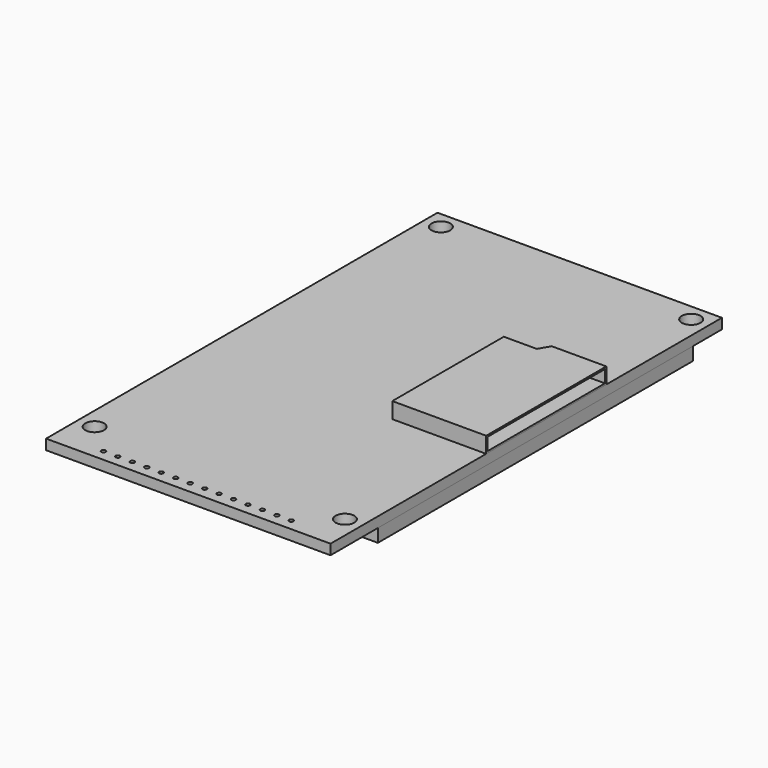
from build123d import *

# Parameters (mm, degrees)
F0_W     = 50
F0_H     = 86
F0_R     = 1.65
F0_R_2   = 0.381
F1_DEPTH = 1.8
F2_W     = 50
F2_H     = 69.2
F3_DEPTH = 2.3
F4_W     = 43.2
F4_H     = 57.6
F5_DEPTH = 1
F7_DEPTH = 2.8
F8_T     = -0.3


with BuildPart() as f1:
    # F0 (on Top) → F1 (new body)
    with BuildSketch(Plane.XY):
        Rectangle(F0_W, F0_H)
        with Locations((-22, -36.08)):
            Circle(F0_R, mode=Mode.SUBTRACT)
        with Locations((-16.51, -41)):
            Circle(F0_R_2, mode=Mode.SUBTRACT)
        with Locations((-13.97, -41)):
            Circle(F0_R_2, mode=Mode.SUBTRACT)
        with Locations((-11.43, -41)):
            Circle(F0_R_2, mode=Mode.SUBTRACT)
        with Locations((-8.89, -41)):
            Circle(F0_R_2, mode=Mode.SUBTRACT)
        with Locations((-6.35, -41)):
            Circle(F0_R_2, mode=Mode.SUBTRACT)
        with Locations((-3.81, -41)):
            Circle(F0_R_2, mode=Mode.SUBTRACT)
        with Locations((-1.27, -41)):
            Circle(F0_R_2, mode=Mode.SUBTRACT)
        with Locations((1.27, -41)):
            Circle(F0_R_2, mode=Mode.SUBTRACT)
        with Locations((3.81, -41)):
            Circle(F0_R_2, mode=Mode.SUBTRACT)
        with Locations((6.35, -41)):
            Circle(F0_R_2, mode=Mode.SUBTRACT)
        with Locations((8.89, -41)):
            Circle(F0_R_2, mode=Mode.SUBTRACT)
        with Locations((11.43, -41)):
            Circle(F0_R_2, mode=Mode.SUBTRACT)
        with Locations((13.97, -41)):
            Circle(F0_R_2, mode=Mode.SUBTRACT)
        with Locations((16.51, -41)):
            Circle(F0_R_2, mode=Mode.SUBTRACT)
        with Locations((22, -36.08)):
            Circle(F0_R, mode=Mode.SUBTRACT)
        with Locations((-22, 40)):
            Circle(F0_R, mode=Mode.SUBTRACT)
        with Locations((22, 40)):
            Circle(F0_R, mode=Mode.SUBTRACT)
    extrude(amount=F1_DEPTH)


with BuildPart() as f3:
    # F2 (on face) → F3 (new body)
    with BuildSketch(Plane(origin=(0, 0, 0), x_dir=(1, 0, 0), z_dir=(0, 0, -1))):
        with Locations((0, -2)):
            Rectangle(F2_W, F2_H)
    extrude(amount=F3_DEPTH)

    # F4 (on face) → F5 (cut)
    with BuildSketch(Plane(origin=(0, 0, -2.3), x_dir=(1, 0, 0), z_dir=(0, 0, -1))):
        with Locations((0, -5.1)):
            Rectangle(F4_W, F4_H)
    extrude(amount=-F5_DEPTH, mode=Mode.SUBTRACT)


with BuildPart() as f7:
    # F6 (on face) → F7 (new body)
    with BuildSketch(Plane.XY.offset(1.8)):
        Polygon((14.3, 15.7), (8.5, 15.7), (8.5, -8.8), (25, -8.8), (25, 17.6), (15.4, 17.6), align=None)
    extrude(amount=F7_DEPTH)

    # F8
    f8_openings = [f7.faces().sort_by_distance(p)[0] for p in [
        (25, 4.4, 3.2),
    ]]
    offset(amount=F8_T, openings=f8_openings, kind=Kind.INTERSECTION)


solid = Compound([f1.part, f3.part, f7.part])
